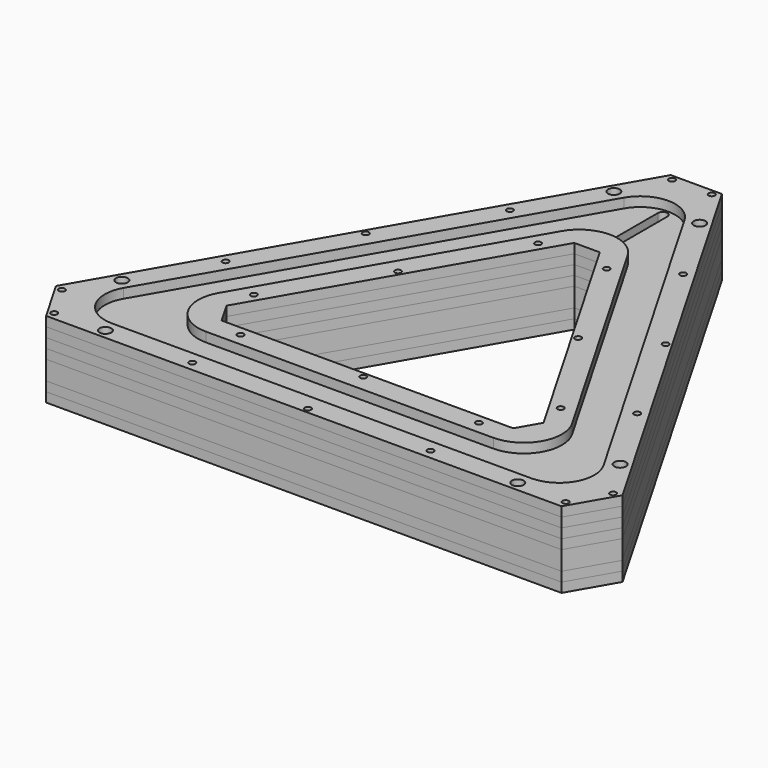
from build123d import *

# Parameters (mm, degrees)
BOX_BOTTOM_HALF_1_W     = 180.2525403784
BOX_BOTTOM_HALF_1_H     = 156.3712282568
BOX_BOTTOM_HALF_1_DEPTH = 7
BOX_BOTTOM_HALF_0_W     = 180.2525403784
BOX_BOTTOM_HALF_0_H     = 156.3712282568
BOX_BOTTOM_HALF_0_DEPTH = 13
PAD_DEPTH               = 24
POCKET_DEPTH            = 3
SKETCH002_W             = 70
SKETCH002_H             = 18.5
POCKET001_DEPTH         = 18
POLARPATTERN_COUNT      = 3
POCKET002_DEPTH         = 6
CHAMFER_SIZE            = 8
FILLET_R                = 13
FILLET001_R             = 11
CHAMFER001_SIZE         = 16.1
FILLET002_R             = 11
FILLET003_R             = 12
POCKET003_DEPTH         = 6
POCKET004_DEPTH         = 18
POCKET005_DEPTH         = 21.001
SKETCH007_W             = 15.5
SKETCH007_H             = 15
POCKET006_DEPTH         = 5
SKETCH010_W             = 13.6
SKETCH010_H             = 9
POCKET009_DEPTH         = 15.5
POCKET010_DEPTH         = 3
SKETCH012_R             = 1.85
SKETCH012_R_2           = 0.99
POCKET011_DEPTH         = 498.0492855781
POLARPATTERN001_COUNT   = 3
BOX_BOTTOM_HALF_3_W     = 180.2525403784
BOX_BOTTOM_HALF_3_H     = 156.3712282568
BOX_BOTTOM_HALF_3_DEPTH = 4
BOX_BOTTOM_HALF_4_W     = 180.2525403784
BOX_BOTTOM_HALF_4_H     = 156.3712282568
BOX_BOTTOM_HALF_4_DEPTH = 4
BOX_BOTTOM_HALF_2_W     = 180.2525403784
BOX_BOTTOM_HALF_2_H     = 156.3712282568
BOX_BOTTOM_HALF_2_DEPTH = 7
BOX_BOTTOM_HALF_5_W     = 180.2525403784
BOX_BOTTOM_HALF_5_H     = 156.3712282568
BOX_BOTTOM_HALF_5_DEPTH = 4


with BuildPart() as box_bottom_half_1_body:
    # box_bottom_half_1 → box_bottom_half_1 (new body)
    with BuildSketch(Plane(origin=(-90.1262701892, -57.1047457526, -1), x_dir=(1, 0, 0), z_dir=(0, 0, 1))):
        with Locations((90.1262701892, 78.1856141284)):
            Rectangle(BOX_BOTTOM_HALF_1_W, BOX_BOTTOM_HALF_1_H)
    extrude(amount=BOX_BOTTOM_HALF_1_DEPTH)


with BuildPart() as box_bottom_half_0_body:
    # box_bottom_half_0 → box_bottom_half_0 (new body)
    with BuildSketch(Plane(origin=(-90.1262701892, -57.1047457526, -1), x_dir=(1, 0, 0), z_dir=(0, 0, 1))):
        with Locations((90.1262701892, 78.1856141284)):
            Rectangle(BOX_BOTTOM_HALF_0_W, BOX_BOTTOM_HALF_0_H)
    extrude(amount=BOX_BOTTOM_HALF_0_DEPTH)


with BuildPart() as body:
    # Sketch → Pad (new body)
    with BuildSketch(Plane.XY):
        Polygon((0, 112.2094915052), (-97.1762701892, -56.1047457526), (97.1762701892, -56.1047457526), align=None)
        Polygon((0, 62.2094915052), (-53.875, -31.1047457526), (53.875, -31.1047457526), align=None, mode=Mode.SUBTRACT)
    extrude(amount=PAD_DEPTH)

    # Sketch001 (on Face8 of Pad) → Pocket (cut)
    with BuildSketch(Plane.XY.offset(24)):
        Polygon((0, 98.2094915052), (-85.0519145362, -49.1047457526), (85.0519145362, -49.1047457526), align=None)
        Polygon((0, 76.2094915052), (-65.999355653, -38.1047457526), (65.999355653, -38.1047457526), align=None, mode=Mode.SUBTRACT)
    extrude(amount=-POCKET_DEPTH, mode=Mode.SUBTRACT)

    # Sketch002 (on Face4 of Pocket) → Pocket001 (cut)
    with BuildSketch(Plane(origin=(0, 0, 0), x_dir=(1, 0, 0), z_dir=(0, 0, -1))):
        with Locations((0, 43.6047457526)):
            Rectangle(SKETCH002_W, SKETCH002_H)
    pocket001 = extrude(amount=-POCKET001_DEPTH, mode=Mode.SUBTRACT)

    # PolarPattern: Pocket001 ×3 about axis
    polarpattern_axis = Axis((0, 0, 0), (0, 0, -1))
    for i in range(1, POLARPATTERN_COUNT):
        add(pocket001.rotate(polarpattern_axis, i * 360 / POLARPATTERN_COUNT), mode=Mode.SUBTRACT)

    # Sketch003 (on Face4 of PolarPattern) → Pocket002 (cut)
    with BuildSketch(Plane(origin=(0, 0, 0), x_dir=(1, 0, 0), z_dir=(0, 0, -1))):
        Polygon((0, -100.2094915052), (86.7839653438, 50.1047457526), (-86.7839653438, 50.1047457526), align=None)
        Polygon((0, -74.2094915052), (64.2673048454, 37.1047457526), (-64.2673048454, 37.1047457526), align=None, mode=Mode.SUBTRACT)
    extrude(amount=-POCKET002_DEPTH, mode=Mode.SUBTRACT)

    # Chamfer
    chamfer_edges = [body.edges().sort_by_distance(p)[0] for p in [
        (-53.875, -31.104746, 12),
        (53.875, -31.104746, 12),
        (0, 62.209492, 12),
    ]]
    chamfer(chamfer_edges, length=CHAMFER_SIZE)

    # Fillet
    fillet_edges = [body.edges().sort_by_distance(p)[0] for p in [
        (0, 100.209492, 3),
        (-86.783965, -50.104746, 3),
        (86.783965, -50.104746, 3),
    ]]
    fillet(fillet_edges, radius=FILLET_R)

    # Fillet001
    fillet001_edges = [body.edges().sort_by_distance(p)[0] for p in [
        (0, 74.209492, 3),
        (64.267305, -37.104746, 3),
        (-64.267305, -37.104746, 3),
    ]]
    fillet(fillet001_edges, radius=FILLET001_R)

    # Chamfer001
    chamfer001_edges = [body.edges().sort_by_distance(p)[0] for p in [
        (97.17627, -56.104746, 12),
        (0, 112.209492, 12),
        (-97.17627, -56.104746, 12),
    ]]
    chamfer(chamfer001_edges, length=CHAMFER001_SIZE)

    # Fillet002
    fillet002_edges = [body.edges().sort_by_distance(p)[0] for p in [
        (0, 98.209492, 22.5),
        (-85.051915, -49.104746, 22.5),
        (85.051915, -49.104746, 22.5),
    ]]
    fillet(fillet002_edges, radius=FILLET002_R)

    # Fillet003
    fillet003_edges = [body.edges().sort_by_distance(p)[0] for p in [
        (65.999356, -38.104746, 22.5),
        (0, 76.209492, 22.5),
        (-65.999356, -38.104746, 22.5),
    ]]
    fillet(fillet003_edges, radius=FILLET003_R)

    # Sketch004 (on Face60 of Fillet003) → Pocket003 (cut)
    with BuildSketch(Plane(origin=(0, 0, 6), x_dir=(1, 0, 0), z_dir=(0, 0, -1))):
        Polygon((-8.75, -71.2664825043), (8.75, -71.2664825043), (8.75, -94.7664825043), (4, -94.7664825043), (4, -98.2664825043), (-4, -98.2664825043), (-4, -94.7664825043), (-8.75, -94.7664825043), align=None)
    extrude(amount=-POCKET003_DEPTH, mode=Mode.SUBTRACT)

    # Sketch005 (on Face29 of Pocket003) → Pocket004 (cut)
    with BuildSketch(Plane(origin=(0, 0, 0), x_dir=(1, 0, 0), z_dir=(0, 0, -1))):
        Polygon((46.1715988394, 38.9547457526), (68.6882593378, 51.9547457526), (79.3382593378, 33.508404652), (56.8215988394, 20.508404652), align=None)
    extrude(amount=-POCKET004_DEPTH, mode=Mode.SUBTRACT)

    # Sketch006 (on Face1 of Pocket004) → Pocket005 (cut, through all)
    with BuildSketch(Plane.XY.offset(21)):
        with BuildLine():
            ThreePointArc((1.5, 85.0404521425), (0, 86.5404521425), (-1.5, 85.0404521425))
            Line((-1.5, 85.0404521425), (-1.5, 66.0404521425))
            ThreePointArc((-1.5, 66.0404521425), (0, 64.5404521425), (1.5, 66.0404521425))
            Line((1.5, 85.0404521425), (1.5, 66.0404521425))
        make_face()
    extrude(amount=-POCKET005_DEPTH, mode=Mode.SUBTRACT)

    # Sketch007 (on Face24 of Pocket005) → Pocket006 (cut)
    with BuildSketch(Plane(origin=(-48.5881350946, 28.0523728763, 0), x_dir=(-0.5, -0.8660254038, 0), z_dir=(-0.8660254038, 0.5, 0))):
        with Locations((-47.3262701892, 13.5)):
            Rectangle(SKETCH007_W, SKETCH007_H)
    extrude(amount=-POCKET006_DEPTH, mode=Mode.SUBTRACT)

    # Sketch010 (on Face79 of Pocket006) → Pocket009 (cut)
    with BuildSketch(Plane(origin=(-44.2580080757, 25.5523728763, 0), x_dir=(-0.5, -0.8660254038, 0), z_dir=(-0.8660254038, 0.5, 0))):
        with Locations((-47.3262701892, 13.5)):
            Rectangle(SKETCH010_W, SKETCH010_H)
    extrude(amount=-POCKET009_DEPTH, mode=Mode.SUBTRACT)

    # Sketch011 (on Face21 of Pocket009) → Pocket010 (cut)
    with BuildSketch(Plane(origin=(0, 0, 6), x_dir=(1, 0, 0), z_dir=(0, 0, -1))):
        Polygon((-21.0413798427, -59.7570681827), (-11.6817654684, -54.3532923042), (-6.658482036, -63.0538744299), (-16.0180964103, -68.4576503084), align=None)
    extrude(amount=-POCKET010_DEPTH, mode=Mode.SUBTRACT)

    # Sketch012 (on Face54 of Pocket010) → Pocket011 (cut, through all)
    with BuildSketch(Plane(origin=(0, 0, 0), x_dir=(1, 0, 0), z_dir=(0, 0, -1))):
        with Locations((-13.5, -82.7032108255)):
            Circle(SKETCH012_R)
        with Locations((13.5, -82.7032108255)):
            Circle(SKETCH012_R)
        with Locations((-6.25, -96.5164825043)):
            Circle(SKETCH012_R_2)
        with Locations((6.25, -96.5164825043)):
            Circle(SKETCH012_R_2)
        with Locations((-27.2463245869, -59.0174730012)):
            Circle(SKETCH012_R_2)
        with Locations((-47.1862074814, -27.2405827309)):
            Circle(SKETCH012_R_2)
        with Locations((-64.7337931796, 5.9127272486)):
            Circle(SKETCH012_R_2)
        with Locations((-10.791841915, -49.5174730012)):
            Circle(SKETCH012_R_2)
        with Locations((-28.3394276132, -16.3641630217)):
            Circle(SKETCH012_R_2)
        with Locations((-48.2793105078, 15.4127272487)):
            Circle(SKETCH012_R_2)
    pocket011 = extrude(amount=-POCKET011_DEPTH, mode=Mode.SUBTRACT)

    # PolarPattern001: Pocket011 ×3 about axis
    polarpattern001_axis = Axis((0, 0, 0), (0, 0, -1))
    for i in range(1, POLARPATTERN001_COUNT):
        add(pocket011.rotate(polarpattern001_axis, i * 360 / POLARPATTERN001_COUNT), mode=Mode.SUBTRACT)


with BuildPart() as bottom_half_0_body:
    # bottom_half_0 base: copy of Body
    add(body.part)

    # bottom_half_0: intersect box_bottom_half_0 body
    add(box_bottom_half_0_body.part, mode=Mode.INTERSECT)


with BuildPart() as top_half_1_body:
    # top_half_1 base: copy of bottom_half_0 body
    add(bottom_half_0_body.part)

    # top_half_1: cut box_bottom_half_1 body
    add(box_bottom_half_1_body.part, mode=Mode.SUBTRACT)


with BuildPart() as box_bottom_half_3_body:
    # box_bottom_half_3 → box_bottom_half_3 (new body)
    with BuildSketch(Plane(origin=(-90.1262701892, -57.1047457526, -1), x_dir=(1, 0, 0), z_dir=(0, 0, 1))):
        with Locations((90.1262701892, 78.1856141284)):
            Rectangle(BOX_BOTTOM_HALF_3_W, BOX_BOTTOM_HALF_3_H)
    extrude(amount=BOX_BOTTOM_HALF_3_DEPTH)


with BuildPart() as bottom_half_1_body:
    # bottom_half_1 base: copy of bottom_half_0 body
    add(bottom_half_0_body.part)

    # bottom_half_1: intersect box_bottom_half_1 body
    add(box_bottom_half_1_body.part, mode=Mode.INTERSECT)


with BuildPart() as bottom_half_3_body:
    # bottom_half_3 base: copy of bottom_half_1 body
    add(bottom_half_1_body.part)

    # bottom_half_3: intersect box_bottom_half_3 body
    add(box_bottom_half_3_body.part, mode=Mode.INTERSECT)


with BuildPart() as top_half_3_body:
    # top_half_3 base: copy of bottom_half_1 body
    add(bottom_half_1_body.part)

    # top_half_3: cut box_bottom_half_3 body
    add(box_bottom_half_3_body.part, mode=Mode.SUBTRACT)


with BuildPart() as box_bottom_half_4_body:
    # box_bottom_half_4 → box_bottom_half_4 (new body)
    with BuildSketch(Plane(origin=(-90.1262701892, -57.1047457526, 11), x_dir=(1, 0, 0), z_dir=(0, 0, 1))):
        with Locations((90.1262701892, 78.1856141284)):
            Rectangle(BOX_BOTTOM_HALF_4_W, BOX_BOTTOM_HALF_4_H)
    extrude(amount=BOX_BOTTOM_HALF_4_DEPTH)


with BuildPart() as box_bottom_half_2_body:
    # box_bottom_half_2 → box_bottom_half_2 (new body)
    with BuildSketch(Plane(origin=(-90.1262701892, -57.1047457526, 11), x_dir=(1, 0, 0), z_dir=(0, 0, 1))):
        with Locations((90.1262701892, 78.1856141284)):
            Rectangle(BOX_BOTTOM_HALF_2_W, BOX_BOTTOM_HALF_2_H)
    extrude(amount=BOX_BOTTOM_HALF_2_DEPTH)


with BuildPart() as top_half_0_body:
    # top_half_0 base: copy of Body
    add(body.part)

    # top_half_0: cut box_bottom_half_0 body
    add(box_bottom_half_0_body.part, mode=Mode.SUBTRACT)


with BuildPart() as bottom_half_2_body:
    # bottom_half_2 base: copy of top_half_0 body
    add(top_half_0_body.part)

    # bottom_half_2: intersect box_bottom_half_2 body
    add(box_bottom_half_2_body.part, mode=Mode.INTERSECT)


with BuildPart() as bottom_half_4_body:
    # bottom_half_4 base: copy of bottom_half_2 body
    add(bottom_half_2_body.part)

    # bottom_half_4: intersect box_bottom_half_4 body
    add(box_bottom_half_4_body.part, mode=Mode.INTERSECT)


with BuildPart() as top_half_4_body:
    # top_half_4 base: copy of bottom_half_2 body
    add(bottom_half_2_body.part)

    # top_half_4: cut box_bottom_half_4 body
    add(box_bottom_half_4_body.part, mode=Mode.SUBTRACT)


with BuildPart() as box_bottom_half_5_body:
    # box_bottom_half_5 → box_bottom_half_5 (new body)
    with BuildSketch(Plane(origin=(-90.1262701892, -57.1047457526, 17), x_dir=(1, 0, 0), z_dir=(0, 0, 1))):
        with Locations((90.1262701892, 78.1856141284)):
            Rectangle(BOX_BOTTOM_HALF_5_W, BOX_BOTTOM_HALF_5_H)
    extrude(amount=BOX_BOTTOM_HALF_5_DEPTH)


with BuildPart() as top_half_2_body:
    # top_half_2 base: copy of top_half_0 body
    add(top_half_0_body.part)

    # top_half_2: cut box_bottom_half_2 body
    add(box_bottom_half_2_body.part, mode=Mode.SUBTRACT)


with BuildPart() as bottom_half_5_body:
    # bottom_half_5 base: copy of top_half_2 body
    add(top_half_2_body.part)

    # bottom_half_5: intersect box_bottom_half_5 body
    add(box_bottom_half_5_body.part, mode=Mode.INTERSECT)


with BuildPart() as top_half_5_body:
    # top_half_5 base: copy of top_half_2 body
    add(top_half_2_body.part)

    # top_half_5: cut box_bottom_half_5 body
    add(box_bottom_half_5_body.part, mode=Mode.SUBTRACT)


solid = Compound([top_half_1_body.part, bottom_half_3_body.part, top_half_3_body.part, bottom_half_4_body.part, top_half_4_body.part, bottom_half_5_body.part, top_half_5_body.part])
